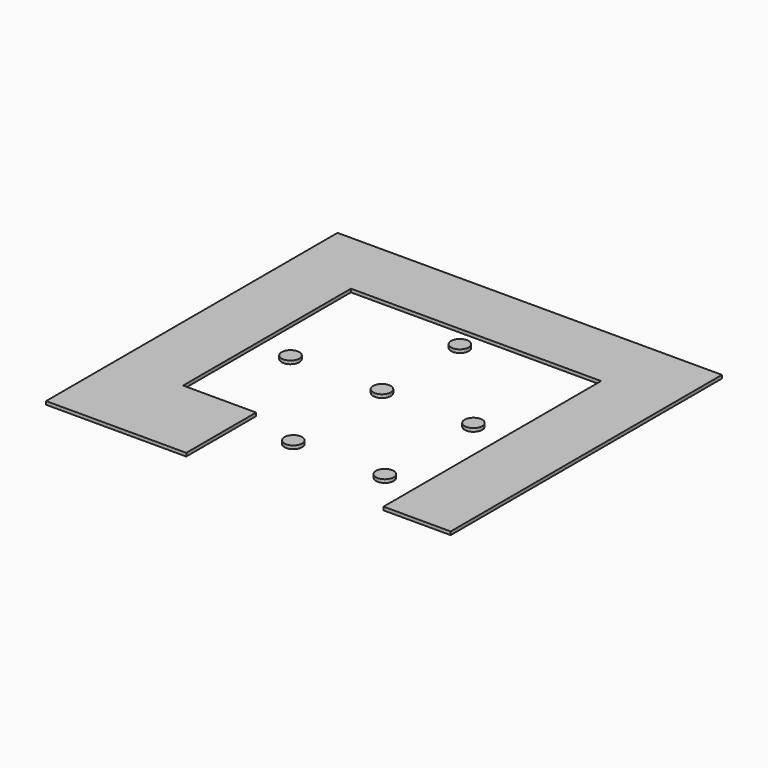
from build123d import *

# Parameters (mm, degrees)
F0_R     = 66.675
F1_DEPTH = 25


with BuildPart() as f1:
    # F0 (on Top) → F1 (new body)
    with BuildSketch(Plane.XY):
        Polygon((-1892.3, 0), (0, 0), (0, -2057.4), (508, -2057.4), (508, 508), (-2400.3, 508), (-2400.3, -2247.9), (-1339.85, -2247.9), (-1339.85, -1587.5), (-1892.3, -1587.5), align=None)
        with Locations((-946.15, -152.4)):
            Circle(F0_R)
        with Locations((-1638.3, -889)):
            Circle(F0_R)
        with Locations((-254, -889)):
            Circle(F0_R)
        with Locations((-254, -1727.2)):
            Circle(F0_R)
        with Locations((-946.15, -1727.2)):
            Circle(F0_R)
        with Locations((-946.15, -889)):
            Circle(F0_R)
    extrude(amount=F1_DEPTH)


solid = f1.part
